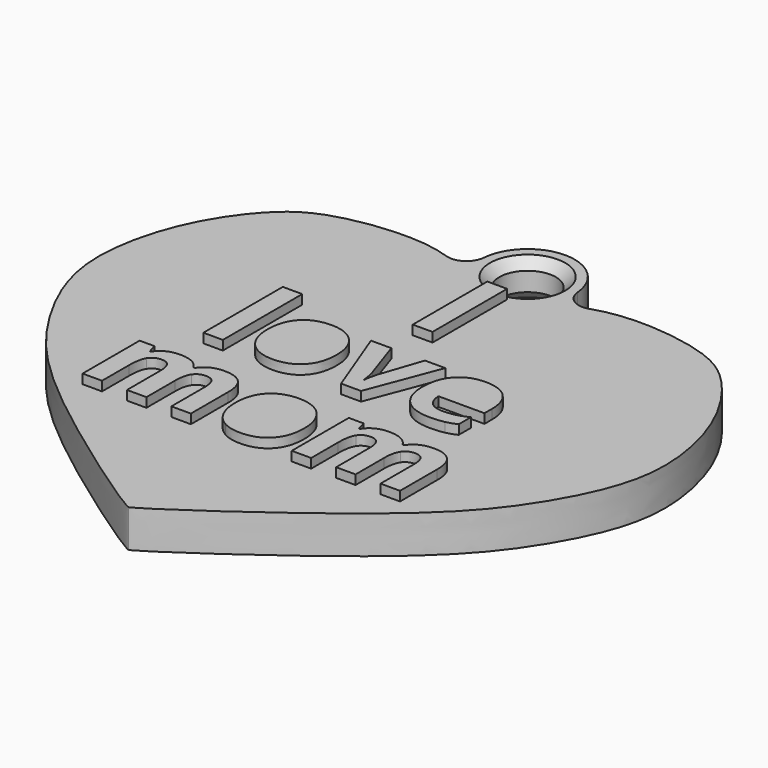
from build123d import *

# Parameters (mm, degrees)
F0_R     = 3
F1_DEPTH = 5
F2_R     = 2
F3_W     = 2.0681423611
F3_H     = 10.5533854167
F3_R     = 3
F3_W_2   = 2.1028645833
F3_H_2   = 9.9153645833
F4_DEPTH = 1
F5_SIZE  = 1


with BuildPart() as f1:
    # F0 (on Top) → F1 (new body)
    with BuildSketch(Plane.XY):
        with BuildLine():
            add(Edge.make_bspline(
                [(3.486235896, 17.7282024426), (5.0946913461, 18.8876718097), (9.3383524751, 21.4943185687), (20.1783689691, 20.2336613363), (24.0933397711, 17.1332078986), (26.821958411, 13.6133712975), (29.331903229, 8.6203197056), (30.9848432766, -0.288937233), (26.3378529729, -10.3078268829), (18.6687439157, -19.345232201), (0.3480676242, -31.8387624593), (0, -31.722035259)],
                knots=[0.0186559293, 0.0186559293, 0.0186559293, 0.0186559293, 0.1006056696, 0.2214696665, 0.3022149418, 0.3769719414, 0.4629782423, 0.5709359113, 0.6866984927, 0.8269288653, 0.9910109899, 0.9910109899, 0.9910109899, 0.9910109899], degree=3))
            ThreePointArc((3.486235896, 17.7282024426), (0, 26.3123563563), (-3.486235896, 17.7282024426))
            add(Edge.make_bspline(
                [(-3.486235896, 17.7282024426), (-5.0946913461, 18.8876718097), (-9.3383524751, 21.4943185687), (-20.1783689691, 20.2336613363), (-24.0933397711, 17.1332078986), (-26.821958411, 13.6133712975), (-29.331903229, 8.6203197056), (-30.9848432766, -0.288937233), (-26.3378529729, -10.3078268829), (-18.6687439157, -19.345232201), (-0.3480676242, -31.8387624593), (0, -31.722035259)],
                knots=[0.0186559293, 0.0186559293, 0.0186559293, 0.0186559293, 0.1006056696, 0.2214696665, 0.3022149418, 0.3769719414, 0.4629782423, 0.5709359113, 0.6866984927, 0.8269288653, 0.9910109899, 0.9910109899, 0.9910109899, 0.9910109899], degree=3))
        make_face()
        with BuildLine():
            add(Edge.make_bspline(
                [(0, -31.722035259), (0.0190683988, -31.7156405223), (0.0095341994, -31.6886779404), (0, -31.6617153585)],
                knots=[0.9910109899, 0.9910109899, 0.9910109899, 0.9910109899, 1, 1, 1, 1], degree=3))
            add(Edge.make_bspline(
                [(0, -31.722035259), (-0.0190683988, -31.7156405223), (-0.0095341994, -31.6886779404), (0, -31.6617153585)],
                knots=[0.9910109899, 0.9910109899, 0.9910109899, 0.9910109899, 1, 1, 1, 1], degree=3))
        make_face(mode=Mode.SUBTRACT)
        with BuildLine():
            ThreePointArc((-2.3987504345, 16.9253304443), (-2.9697503075, 17.2898468025), (-3.486235896, 17.7282024426))
            add(Edge.make_bspline(
                [(-2.3987504345, 16.9253304443), (-2.7594100283, 17.1947893415), (-3.120069622, 17.4642482386), (-3.486235896, 17.7282024426)],
                knots=[0, 0, 0, 0, 0.0186559293, 0.0186559293, 0.0186559293, 0.0186559293], degree=3))
        make_face(mode=Mode.SUBTRACT)
        with Locations((0, 21.3123563563)):
            Circle(F0_R, mode=Mode.SUBTRACT)
        with BuildLine():
            ThreePointArc((3.486235896, 17.7282024426), (2.9697503075, 17.2898468025), (2.3987504345, 16.9253304443))
            add(Edge.make_bspline(
                [(2.3987504345, 16.9253304443), (2.7594100283, 17.1947893415), (3.120069622, 17.4642482386), (3.486235896, 17.7282024426)],
                knots=[0, 0, 0, 0, 0.0186559293, 0.0186559293, 0.0186559293, 0.0186559293], degree=3))
        make_face(mode=Mode.SUBTRACT)
        with BuildLine():
            add(Edge.make_bspline(
                [(2.3987504345, 16.9253304443), (2.7594100283, 17.1947893415), (3.120069622, 17.4642482386), (3.486235896, 17.7282024426)],
                knots=[0, 0, 0, 0, 0.0186559293, 0.0186559293, 0.0186559293, 0.0186559293], degree=3))
            ThreePointArc((2.3987504345, 16.9253304443), (2.9697503075, 17.2898468025), (3.486235896, 17.7282024426))
        make_face()
        with BuildLine():
            add(Edge.make_bspline(
                [(-2.3987504345, 16.9253304443), (-2.7594100283, 17.1947893415), (-3.120069622, 17.4642482386), (-3.486235896, 17.7282024426)],
                knots=[0, 0, 0, 0, 0.0186559293, 0.0186559293, 0.0186559293, 0.0186559293], degree=3))
            ThreePointArc((-3.486235896, 17.7282024426), (-2.9697503075, 17.2898468025), (-2.3987504345, 16.9253304443))
        make_face()
        with BuildLine():
            add(Edge.make_bspline(
                [(0, -31.722035259), (-0.0190683988, -31.7156405223), (-0.0095341994, -31.6886779404), (0, -31.6617153585)],
                knots=[0.9910109899, 0.9910109899, 0.9910109899, 0.9910109899, 1, 1, 1, 1], degree=3))
            add(Edge.make_bspline(
                [(0, -31.722035259), (0.0190683988, -31.7156405223), (0.0095341994, -31.6886779404), (0, -31.6617153585)],
                knots=[0.9910109899, 0.9910109899, 0.9910109899, 0.9910109899, 1, 1, 1, 1], degree=3))
        make_face()
    extrude(amount=F1_DEPTH)

    # F2
    f2_edges = [f1.edges().sort_by_distance(p)[0] for p in [
        (3.486236, 17.728202, 2.5),
        (-3.486236, 17.728202, 2.5),
    ]]
    fillet(f2_edges, radius=F2_R)

    # F3 (on face) → F4 (cut)
    with BuildSketch(Plane.XY.offset(5)):
        with BuildLine():
            add(Edge.make_bspline(
                [(-7.6326439013, 20.0147065206), (-7.5342562264, 19.9804492662), (-7.4313942906, 19.9518170717), (-7.3245791749, 19.9296470352), (-7.21456587, 19.9147054719), (-7.028327787, 19.9028261976), (-6.9533718435, 19.9014866266), (-6.8777115945, 19.9036846544), (-6.8016501201, 19.9095378773), (-6.5505391396, 19.9411087961), (-6.3751164785, 19.9827526317), (-6.2032293309, 20.0448346812), (-6.0391221546, 20.1266046556), (-5.7335330294, 20.3248985689), (-5.5919992133, 20.4414561638), (-5.4652758131, 20.5731396943), (-5.3557772261, 20.7163785806), (-5.2246422209, 20.932843492), (-5.1883092422, 20.9999219741), (-5.1554778277, 21.0681231678), (-5.1261640578, 21.1371223766), (-5.0611392012, 21.3120438125), (-5.0299650349, 21.4186005998), (-5.0066952127, 21.5251815308), (-4.9909374819, 21.6307849129), (-4.982139652, 21.7345938346)],
                knots=[0, 0, 0, 0, 0, 0, 0.1575583363, 0.1575583363, 0.1575583363, 0.1575583363, 0.2613916024, 0.2613916024, 0.2613916024, 0.2613916024, 0.5, 0.5, 0.5, 0.5, 0.7386083976, 0.7386083976, 0.7386083976, 0.7386083976, 0.8424416637, 0.8424416637, 0.8424416637, 0.8424416637, 1, 1, 1, 1, 1, 1], degree=5))
            add(Edge.make_bspline(
                [(-7.6326439013, 20.0147065206), (-8.0952698723, 20.1757866109), (-11.7652765774, 21.2120755091), (-20.1783689691, 20.2336613363), (-24.0933397711, 17.1332078986), (-26.821958411, 13.6133712975), (-29.331903229, 8.6203197056), (-30.9848432766, -0.288937233), (-26.3378529729, -10.3078268829), (-18.6687439157, -19.345232201), (-0.3480676242, -31.8387624593), (0, -31.722035259)],
                knots=[0.0821407221, 0.0821407221, 0.0821407221, 0.0821407221, 0.1006056696, 0.2214696665, 0.3022149418, 0.3769719414, 0.4629782423, 0.5709359113, 0.6866984927, 0.8269288653, 0.9910109899, 0.9910109899, 0.9910109899, 0.9910109899], degree=3))
            add(Edge.make_bspline(
                [(7.6326439013, 20.0147065206), (8.0952698723, 20.1757866109), (11.7652765774, 21.2120755091), (20.1783689691, 20.2336613363), (24.0933397711, 17.1332078986), (26.821958411, 13.6133712975), (29.331903229, 8.6203197056), (30.9848432766, -0.288937233), (26.3378529729, -10.3078268829), (18.6687439157, -19.345232201), (0.3480676242, -31.8387624593), (0, -31.722035259)],
                knots=[0.0821407221, 0.0821407221, 0.0821407221, 0.0821407221, 0.1006056696, 0.2214696665, 0.3022149418, 0.3769719414, 0.4629782423, 0.5709359113, 0.6866984927, 0.8269288653, 0.9910109899, 0.9910109899, 0.9910109899, 0.9910109899], degree=3))
            add(Edge.make_bspline(
                [(4.982139652, 21.7345938346), (4.9909374819, 21.6307849129), (5.0066952127, 21.5251815308), (5.0299650349, 21.4186005998), (5.0611392012, 21.3120438125), (5.1261640578, 21.1371223766), (5.1554778277, 21.0681231678), (5.1883092422, 20.9999219741), (5.2246422209, 20.932843492), (5.3557772261, 20.7163785806), (5.4652758131, 20.5731396943), (5.5919992133, 20.4414561638), (5.7335330294, 20.3248985689), (6.0391221546, 20.1266046556), (6.2032293309, 20.0448346812), (6.3751164785, 19.9827526317), (6.5505391396, 19.9411087961), (6.8016501201, 19.9095378773), (6.8777115945, 19.9036846544), (6.9533718435, 19.9014866266), (7.028327787, 19.9028261976), (7.21456587, 19.9147054719), (7.3245791749, 19.9296470352), (7.4313942906, 19.9518170717), (7.5342562264, 19.9804492662), (7.6326439013, 20.0147065206)],
                knots=[0, 0, 0, 0, 0, 0, 0.1575583363, 0.1575583363, 0.1575583363, 0.1575583363, 0.2613916024, 0.2613916024, 0.2613916024, 0.2613916024, 0.5, 0.5, 0.5, 0.5, 0.7386083976, 0.7386083976, 0.7386083976, 0.7386083976, 0.8424416637, 0.8424416637, 0.8424416637, 0.8424416637, 1, 1, 1, 1, 1, 1], degree=5))
            ThreePointArc((4.982139652, 21.7345938346), (0, 26.3123563563), (-4.982139652, 21.7345938346))
        make_face()
        with BuildLine():
            Line((-9.9956597222, -13.0544160539), (-9.9956597222, -16.8586695262))
            Line((-9.9956597222, -16.8586695262), (-12.0638020833, -16.8586695262))
            Line((-12.0638020833, -16.8586695262), (-12.0638020833, -12.4294160539))
            add(Edge.make_bspline(
                [(-12.0638020833, -12.4294160539), (-12.0638020833, -11.6091035539), (-12.3383246528, -11.1989473039)],
                knots=[0, 0, 0, 1, 1, 1], degree=2))
            add(Edge.make_bspline(
                [(-12.3383246528, -11.1989473039), (-12.6128472222, -10.7887910539), (-13.203125, -10.7887910539)],
                knots=[0, 0, 0, 1, 1, 1], degree=2))
            add(Edge.make_bspline(
                [(-13.203125, -10.7887910539), (-13.9973958333, -10.7887910539), (-14.3565538194, -11.372558415)],
                knots=[0, 0, 0, 1, 1, 1], degree=2))
            add(Edge.make_bspline(
                [(-14.3565538194, -11.372558415), (-14.7157118056, -11.9563257762), (-14.7157118056, -13.2909611928)],
                knots=[0, 0, 0, 1, 1, 1], degree=2))
            Line((-14.7157118056, -13.2909611928), (-14.7157118056, -16.8586695262))
            Line((-14.7157118056, -16.8586695262), (-16.7838541667, -16.8586695262))
            Line((-16.7838541667, -16.8586695262), (-16.7838541667, -9.2762042484))
            Line((-16.7838541667, -9.2762042484), (-15.2039930556, -9.2762042484))
            Line((-15.2039930556, -9.2762042484), (-14.9262152778, -10.2462563317))
            Line((-14.9262152778, -10.2462563317), (-14.8111979167, -10.2462563317))
            add(Edge.make_bspline(
                [(-14.8111979167, -10.2462563317), (-14.5052083333, -9.7232528595), (-13.9290364583, -9.42919904)],
                knots=[0, 0, 0, 1, 1, 1], degree=2))
            add(Edge.make_bspline(
                [(-13.9290364583, -9.42919904), (-13.3528645833, -9.1351452206), (-12.6063368056, -9.1351452206)],
                knots=[0, 0, 0, 1, 1, 1], degree=2))
            add(Edge.make_bspline(
                [(-12.6063368056, -9.1351452206), (-10.9049479167, -9.1351452206), (-10.2994791667, -10.2462563317)],
                knots=[0, 0, 0, 1, 1, 1], degree=2))
            Line((-10.2994791667, -10.2462563317), (-10.1171875, -10.2462563317))
            add(Edge.make_bspline(
                [(-10.1171875, -10.2462563317), (-9.8111979167, -9.7167424428), (-9.21875, -9.4259438317)],
                knots=[0, 0, 0, 1, 1, 1], degree=2))
            add(Edge.make_bspline(
                [(-9.21875, -9.4259438317), (-8.6263020833, -9.1351452206), (-7.8797743056, -9.1351452206)],
                knots=[0, 0, 0, 1, 1, 1], degree=2))
            add(Edge.make_bspline(
                [(-7.8797743056, -9.1351452206), (-6.5907118056, -9.1351452206), (-5.9299045139, -9.7959525123)],
                knots=[0, 0, 0, 1, 1, 1], degree=2))
            add(Edge.make_bspline(
                [(-5.9299045139, -9.7959525123), (-5.2690972222, -10.4567598039), (-5.2690972222, -11.9150931373)],
                knots=[0, 0, 0, 1, 1, 1], degree=2))
            Line((-5.2690972222, -11.9150931373), (-5.2690972222, -16.8586695262))
            Line((-5.2690972222, -16.8586695262), (-7.34375, -16.8586695262))
            Line((-7.34375, -16.8586695262), (-7.34375, -12.4294160539))
            add(Edge.make_bspline(
                [(-7.34375, -12.4294160539), (-7.34375, -11.6091035539), (-7.6182725694, -11.1989473039)],
                knots=[0, 0, 0, 1, 1, 1], degree=2))
            add(Edge.make_bspline(
                [(-7.6182725694, -11.1989473039), (-7.8927951389, -10.7887910539), (-8.4830729167, -10.7887910539)],
                knots=[0, 0, 0, 1, 1, 1], degree=2))
            add(Edge.make_bspline(
                [(-8.4830729167, -10.7887910539), (-9.2426215278, -10.7887910539), (-9.619140625, -11.3313257762)],
                knots=[0, 0, 0, 1, 1, 1], degree=2))
            add(Edge.make_bspline(
                [(-9.619140625, -11.3313257762), (-9.9956597222, -11.8738604984), (-9.9956597222, -13.0544160539)],
                knots=[0, 0, 0, 1, 1, 1], degree=2))
        make_face(mode=Mode.SUBTRACT)
        with BuildLine():
            add(Edge.make_bspline(
                [(3.2964409722, -10.97216779), (3.7434895833, -11.860839665), (3.7434895833, -13.0544160539)],
                knots=[0, 0, 0, 1, 1, 1], degree=2))
            add(Edge.make_bspline(
                [(3.7434895833, -13.0544160539), (3.7434895833, -14.9055445262), (2.7669270833, -15.9504664012)],
                knots=[0, 0, 0, 1, 1, 1], degree=2))
            add(Edge.make_bspline(
                [(2.7669270833, -15.9504664012), (1.7903645833, -16.9953882762), (0.0477430556, -16.9953882762)],
                knots=[0, 0, 0, 1, 1, 1], degree=2))
            add(Edge.make_bspline(
                [(0.0477430556, -16.9953882762), (-1.0438368056, -16.9953882762), (-1.8782552083, -16.5168726512)],
                knots=[0, 0, 0, 1, 1, 1], degree=2))
            add(Edge.make_bspline(
                [(-1.8782552083, -16.5168726512), (-2.7126736111, -16.0383570262), (-3.1597222222, -15.1431747345)],
                knots=[0, 0, 0, 1, 1, 1], degree=2))
            add(Edge.make_bspline(
                [(-3.1597222222, -15.1431747345), (-3.6067708333, -14.2479924428), (-3.6067708333, -13.0544160539)],
                knots=[0, 0, 0, 1, 1, 1], degree=2))
            add(Edge.make_bspline(
                [(-3.6067708333, -13.0544160539), (-3.6067708333, -11.196777165), (-2.6378038194, -10.1659611928)],
                knots=[0, 0, 0, 1, 1, 1], degree=2))
            add(Edge.make_bspline(
                [(-2.6378038194, -10.1659611928), (-1.6688368056, -9.1351452206), (0.0889756944, -9.1351452206)],
                knots=[0, 0, 0, 1, 1, 1], degree=2))
            add(Edge.make_bspline(
                [(0.0889756944, -9.1351452206), (1.1805555556, -9.1351452206), (2.0149739583, -9.6093205678)],
                knots=[0, 0, 0, 1, 1, 1], degree=2))
            add(Edge.make_bspline(
                [(2.0149739583, -9.6093205678), (2.8493923611, -10.083495915), (3.2964409722, -10.97216779)],
                knots=[0, 0, 0, 1, 1, 1], degree=2))
        make_face(mode=Mode.SUBTRACT)
        with BuildLine():
            Line((12.2417534722, -13.0544160539), (12.2417534722, -16.8586695262))
            Line((12.2417534722, -16.8586695262), (10.1736111111, -16.8586695262))
            Line((10.1736111111, -16.8586695262), (10.1736111111, -12.4294160539))
            add(Edge.make_bspline(
                [(10.1736111111, -12.4294160539), (10.1736111111, -11.6091035539), (9.8990885417, -11.1989473039)],
                knots=[0, 0, 0, 1, 1, 1], degree=2))
            add(Edge.make_bspline(
                [(9.8990885417, -11.1989473039), (9.6245659722, -10.7887910539), (9.0342881944, -10.7887910539)],
                knots=[0, 0, 0, 1, 1, 1], degree=2))
            add(Edge.make_bspline(
                [(9.0342881944, -10.7887910539), (8.2400173611, -10.7887910539), (7.880859375, -11.372558415)],
                knots=[0, 0, 0, 1, 1, 1], degree=2))
            add(Edge.make_bspline(
                [(7.880859375, -11.372558415), (7.5217013889, -11.9563257762), (7.5217013889, -13.2909611928)],
                knots=[0, 0, 0, 1, 1, 1], degree=2))
            Line((7.5217013889, -13.2909611928), (7.5217013889, -16.8586695262))
            Line((7.5217013889, -16.8586695262), (5.4535590278, -16.8586695262))
            Line((5.4535590278, -16.8586695262), (5.4535590278, -9.2762042484))
            Line((5.4535590278, -9.2762042484), (7.0334201389, -9.2762042484))
            Line((7.0334201389, -9.2762042484), (7.3111979167, -10.2462563317))
            Line((7.3111979167, -10.2462563317), (7.4262152778, -10.2462563317))
            add(Edge.make_bspline(
                [(7.4262152778, -10.2462563317), (7.7322048611, -9.7232528595), (8.3083767361, -9.42919904)],
                knots=[0, 0, 0, 1, 1, 1], degree=2))
            add(Edge.make_bspline(
                [(8.3083767361, -9.42919904), (8.8845486111, -9.1351452206), (9.6310763889, -9.1351452206)],
                knots=[0, 0, 0, 1, 1, 1], degree=2))
            add(Edge.make_bspline(
                [(9.6310763889, -9.1351452206), (11.3324652778, -9.1351452206), (11.9379340278, -10.2462563317)],
                knots=[0, 0, 0, 1, 1, 1], degree=2))
            Line((11.9379340278, -10.2462563317), (12.1202256944, -10.2462563317))
            add(Edge.make_bspline(
                [(12.1202256944, -10.2462563317), (12.4262152778, -9.7167424428), (13.0186631944, -9.4259438317)],
                knots=[0, 0, 0, 1, 1, 1], degree=2))
            add(Edge.make_bspline(
                [(13.0186631944, -9.4259438317), (13.6111111111, -9.1351452206), (14.3576388889, -9.1351452206)],
                knots=[0, 0, 0, 1, 1, 1], degree=2))
            add(Edge.make_bspline(
                [(14.3576388889, -9.1351452206), (15.6467013889, -9.1351452206), (16.3075086806, -9.7959525123)],
                knots=[0, 0, 0, 1, 1, 1], degree=2))
            add(Edge.make_bspline(
                [(16.3075086806, -9.7959525123), (16.9683159722, -10.4567598039), (16.9683159722, -11.9150931373)],
                knots=[0, 0, 0, 1, 1, 1], degree=2))
            Line((16.9683159722, -11.9150931373), (16.9683159722, -16.8586695262))
            Line((16.9683159722, -16.8586695262), (14.8936631944, -16.8586695262))
            Line((14.8936631944, -16.8586695262), (14.8936631944, -12.4294160539))
            add(Edge.make_bspline(
                [(14.8936631944, -12.4294160539), (14.8936631944, -11.6091035539), (14.619140625, -11.1989473039)],
                knots=[0, 0, 0, 1, 1, 1], degree=2))
            add(Edge.make_bspline(
                [(14.619140625, -11.1989473039), (14.3446180556, -10.7887910539), (13.7543402778, -10.7887910539)],
                knots=[0, 0, 0, 1, 1, 1], degree=2))
            add(Edge.make_bspline(
                [(13.7543402778, -10.7887910539), (12.9947916667, -10.7887910539), (12.6182725694, -11.3313257762)],
                knots=[0, 0, 0, 1, 1, 1], degree=2))
            add(Edge.make_bspline(
                [(12.6182725694, -11.3313257762), (12.2417534722, -11.8738604984), (12.2417534722, -13.0544160539)],
                knots=[0, 0, 0, 1, 1, 1], degree=2))
        make_face(mode=Mode.SUBTRACT)
        with Locations((-12.5054253472, 0.4180231822)):
            Rectangle(F3_W, F3_H, mode=Mode.SUBTRACT)
        with BuildLine():
            add(Edge.make_bspline(
                [(-2.8580729167, 1.02783221), (-2.4110243056, 0.139160335), (-2.4110243056, -1.0544160539)],
                knots=[0, 0, 0, 1, 1, 1], degree=2))
            add(Edge.make_bspline(
                [(-2.4110243056, -1.0544160539), (-2.4110243056, -2.9055445262), (-3.3875868056, -3.9504664012)],
                knots=[0, 0, 0, 1, 1, 1], degree=2))
            add(Edge.make_bspline(
                [(-3.3875868056, -3.9504664012), (-4.3641493056, -4.9953882762), (-6.1067708333, -4.9953882762)],
                knots=[0, 0, 0, 1, 1, 1], degree=2))
            add(Edge.make_bspline(
                [(-6.1067708333, -4.9953882762), (-7.1983506944, -4.9953882762), (-8.0327690972, -4.5168726512)],
                knots=[0, 0, 0, 1, 1, 1], degree=2))
            add(Edge.make_bspline(
                [(-8.0327690972, -4.5168726512), (-8.8671875, -4.0383570262), (-9.3142361111, -3.1431747345)],
                knots=[0, 0, 0, 1, 1, 1], degree=2))
            add(Edge.make_bspline(
                [(-9.3142361111, -3.1431747345), (-9.7612847222, -2.2479924428), (-9.7612847222, -1.0544160539)],
                knots=[0, 0, 0, 1, 1, 1], degree=2))
            add(Edge.make_bspline(
                [(-9.7612847222, -1.0544160539), (-9.7612847222, 0.803222835), (-8.7923177083, 1.8340388072)],
                knots=[0, 0, 0, 1, 1, 1], degree=2))
            add(Edge.make_bspline(
                [(-8.7923177083, 1.8340388072), (-7.8233506944, 2.8648547794), (-6.0655381944, 2.8648547794)],
                knots=[0, 0, 0, 1, 1, 1], degree=2))
            add(Edge.make_bspline(
                [(-6.0655381944, 2.8648547794), (-4.9739583333, 2.8648547794), (-4.1395399306, 2.3906794322)],
                knots=[0, 0, 0, 1, 1, 1], degree=2))
            add(Edge.make_bspline(
                [(-4.1395399306, 2.3906794322), (-3.3051215278, 1.916504085), (-2.8580729167, 1.02783221)],
                knots=[0, 0, 0, 1, 1, 1], degree=2))
        make_face(mode=Mode.SUBTRACT)
        with Locations((0, 21.3123563563)):
            Circle(F3_R, mode=Mode.SUBTRACT)
        with BuildLine():
            Line((3.2248263889, -4.8586695262), (1.1024305556, -4.8586695262))
            Line((1.1024305556, -4.8586695262), (-1.7860243056, 2.7237957516))
            Line((-1.7860243056, 2.7237957516), (0.3776041667, 2.7237957516))
            Line((0.3776041667, 2.7237957516), (1.8424479167, -1.5969507762))
            add(Edge.make_bspline(
                [(1.8424479167, -1.5969507762), (2.0855034722, -2.4172632762), (2.1484375, -3.1486000817)],
                knots=[0, 0, 0, 1, 1, 1], degree=2))
            Line((2.1484375, -3.1486000817), (2.1875, -3.1486000817))
            add(Edge.make_bspline(
                [(2.1875, -3.1486000817), (2.2222222222, -2.497558415), (2.4934895833, -1.5969507762)],
                knots=[0, 0, 0, 1, 1, 1], degree=2))
            Line((2.4934895833, -1.5969507762), (3.9518229167, 2.7237957516))
            Line((3.9518229167, 2.7237957516), (6.1154513889, 2.7237957516))
            Line((6.1154513889, 2.7237957516), (3.2248263889, -4.8586695262))
        make_face(mode=Mode.SUBTRACT)
        with BuildLine():
            add(Edge.make_bspline(
                [(12.1375868056, -4.8630098039), (11.5212673611, -4.9953882762), (10.6315104167, -4.9953882762)],
                knots=[0, 0, 0, 1, 1, 1], degree=2))
            add(Edge.make_bspline(
                [(10.6315104167, -4.9953882762), (8.8020833333, -4.9953882762), (7.7712673611, -3.9841035539)],
                knots=[0, 0, 0, 1, 1, 1], degree=2))
            add(Edge.make_bspline(
                [(7.7712673611, -3.9841035539), (6.7404513889, -2.9728188317), (6.7404513889, -1.1216903595)],
                knots=[0, 0, 0, 1, 1, 1], degree=2))
            add(Edge.make_bspline(
                [(6.7404513889, -1.1216903595), (6.7404513889, 0.783691585), (7.6931423611, 1.8242731822)],
                knots=[0, 0, 0, 1, 1, 1], degree=2))
            add(Edge.make_bspline(
                [(7.6931423611, 1.8242731822), (8.6458333333, 2.8648547794), (10.3276909722, 2.8648547794)],
                knots=[0, 0, 0, 1, 1, 1], degree=2))
            add(Edge.make_bspline(
                [(10.3276909722, 2.8648547794), (11.93359375, 2.8648547794), (12.8287760417, 1.9501412377)],
                knots=[0, 0, 0, 1, 1, 1], degree=2))
            add(Edge.make_bspline(
                [(12.8287760417, 1.9501412377), (13.7239583333, 1.0354276961), (13.7239583333, -0.5791556373)],
                knots=[0, 0, 0, 1, 1, 1], degree=2))
            Line((13.7239583333, -0.5791556373), (13.7239583333, -1.5839299428))
            Line((13.7239583333, -1.5839299428), (8.8346354167, -1.5839299428))
            add(Edge.make_bspline(
                [(8.8346354167, -1.5839299428), (8.8693576389, -2.4650063317), (9.3576388889, -2.9597979984)],
                knots=[0, 0, 0, 1, 1, 1], degree=2))
            add(Edge.make_bspline(
                [(9.3576388889, -2.9597979984), (9.8459201389, -3.454589665), (10.7269965278, -3.454589665)],
                knots=[0, 0, 0, 1, 1, 1], degree=2))
            add(Edge.make_bspline(
                [(10.7269965278, -3.454589665), (11.4127604167, -3.454589665), (12.0225694444, -3.3124455678)],
                knots=[0, 0, 0, 1, 1, 1], degree=2))
            add(Edge.make_bspline(
                [(12.0225694444, -3.3124455678), (12.6323784722, -3.1703014706), (13.2964409722, -2.8578014706)],
                knots=[0, 0, 0, 1, 1, 1], degree=2))
            Line((13.2964409722, -2.8578014706), (13.2964409722, -4.4593639706))
            add(Edge.make_bspline(
                [(13.2964409722, -4.4593639706), (12.75390625, -4.7306313317), (12.1375868056, -4.8630098039)],
                knots=[0, 0, 0, 1, 1, 1], degree=2))
        make_face(mode=Mode.SUBTRACT)
        with Locations((0.1736111111, 12.0990127655)):
            Rectangle(F3_W_2, F3_H_2, mode=Mode.SUBTRACT)
    extrude(amount=-F4_DEPTH, mode=Mode.SUBTRACT)

    # F5
    f5_edges = [f1.edges().sort_by_distance(p)[0] for p in [
        (-3, 21.312356, 4),
        (-3, 21.312356, 0),
    ]]
    chamfer(f5_edges, length=F5_SIZE)


solid = f1.part
